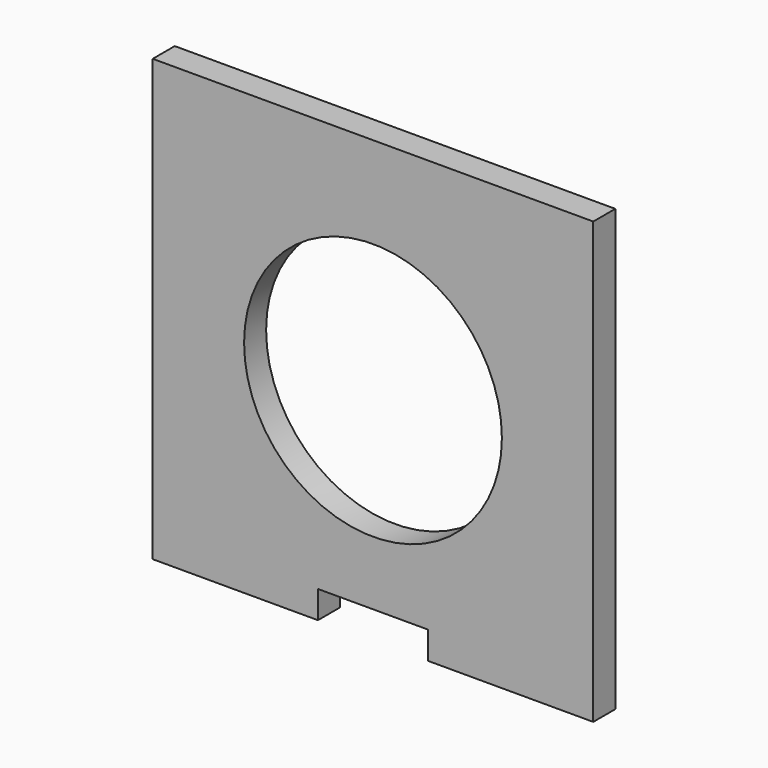
from build123d import *

# Parameters (mm, degrees)
F0_R     = 14.864421
F1_DEPTH = 3.175


with BuildPart() as f1:
    # F0 (on Front) → F1 (new body)
    with BuildSketch(Plane.XZ):
        Polygon((15.951967, 34.272416), (-34.848033, 34.272416), (-34.848033, -16.527584), (-15.798033, -16.527584), (-15.798033, -13.352584), (-3.098033, -13.352584), (-3.098033, -16.527584), (15.951967, -16.527584), align=None)
        with Locations((-9.448033, 8.872416)):
            Circle(F0_R, mode=Mode.SUBTRACT)
        Polygon((15.951967, 34.272416), (-34.848033, 34.272416), (-34.848033, -16.527584), (-15.798033, -16.527584), (-15.798033, -13.352584), (-3.098033, -13.352584), (-3.098033, -16.527584), (15.951967, -16.527584), align=None)
        with Locations((-9.448033, 8.872416)):
            Circle(F0_R, mode=Mode.SUBTRACT)
    extrude(amount=F1_DEPTH)


solid = f1.part
